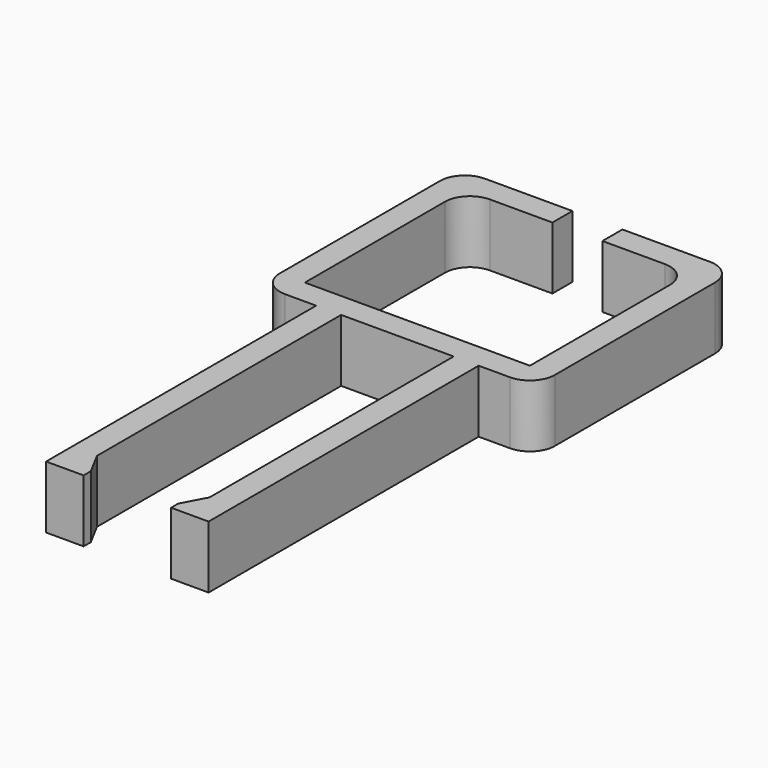
from build123d import *

# Parameters (mm, degrees)
F1_DEPTH = 5


with BuildPart() as f1:
    # F0 (on Top) → F1 (new body)
    with BuildSketch(Plane.XY):
        with BuildLine():
            Line((-4.5, 12.5), (0, 12.5))
            Line((0, 12.5), (4.5, 12.5))
            Line((4.5, 12.5), (4.5, 0))
            Line((4.5, 0), (4.5, -11.917724))
            Line((4.5, -11.917724), (3.5, -13.781429))
            Line((3.5, -13.781429), (3.5, -14.5))
            Line((3.5, -14.5), (6.5, -14.5))
            Line((6.5, -14.5), (6.5, -12.5))
            Line((6.5, -12.5), (6.5, 12.5))
            Line((6.5, 12.5), (9, 12.5))
            ThreePointArc((9, 12.5), (10.414214, 13.085786), (11, 14.5))
            Line((11, 14.5), (11, 30.5))
            ThreePointArc((11, 30.5), (10.414214, 31.914214), (9, 32.5))
            Line((9, 32.5), (2, 32.5))
            Line((2, 32.5), (2, 30.5))
            Line((2, 30.5), (7, 30.5))
            ThreePointArc((7, 30.5), (8.414214, 29.914214), (9, 28.5))
            Line((9, 28.5), (9, 14.5))
            Line((9, 14.5), (-9, 14.5))
            Line((-9, 14.5), (-9, 28.5))
            ThreePointArc((-9, 28.5), (-8.414214, 29.914214), (-7, 30.5))
            Line((-7, 30.5), (-2, 30.5))
            Line((-2, 30.5), (-2, 32.5))
            Line((-2, 32.5), (-9, 32.5))
            ThreePointArc((-9, 32.5), (-10.414214, 31.914214), (-11, 30.5))
            Line((-11, 30.5), (-11, 14.5))
            ThreePointArc((-11, 14.5), (-10.414214, 13.085786), (-9, 12.5))
            Line((-9, 12.5), (-6.5, 12.5))
            Line((-6.5, 12.5), (-6.5, -12.5))
            Line((-6.5, -12.5), (-6.5, -14.5))
            Line((-6.5, -14.5), (-3.5, -14.5))
            Line((-3.5, -14.5), (-3.5, -13.781429))
            Line((-3.5, -13.781429), (-4.5, -11.917724))
            Line((-4.5, -11.917724), (-4.5, 12.5))
        make_face()
    extrude(amount=F1_DEPTH)


solid = f1.part
